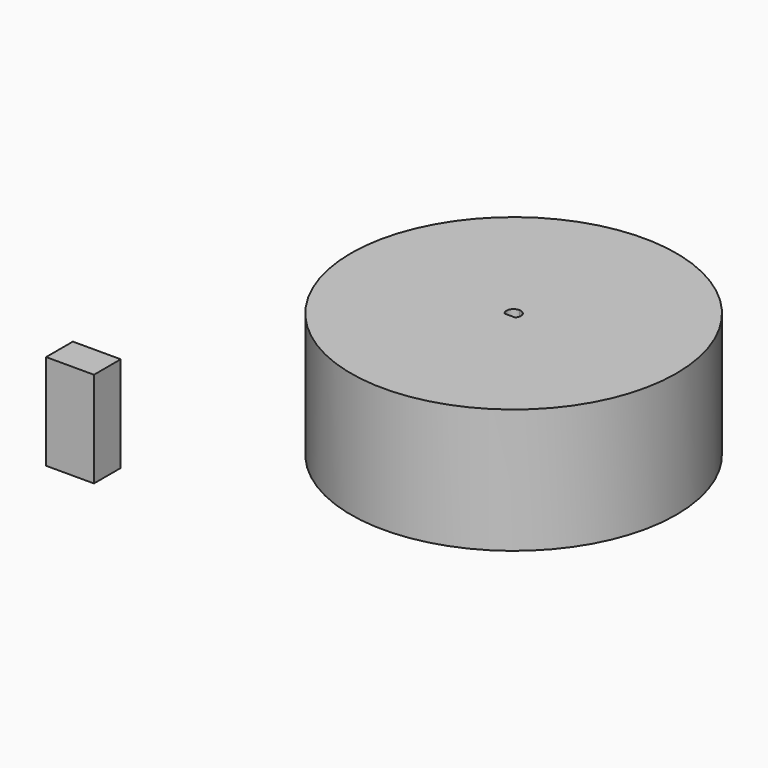
from build123d import *

# Parameters (mm, degrees)
F0_R     = 34
F1_DEPTH = 26
F2_W     = 10.0005424353
F2_H     = 7
F3_DEPTH = 20


with BuildPart() as f1:
    # F0 (on Top) → F1 (new body)
    with BuildSketch(Plane.XY):
        Circle(F0_R)
        with BuildLine():
            ThreePointArc((0, 1.5), (1.0606601718, 1.0606601718), (1.5, 0))
            ThreePointArc((1.5, 0), (1.4012585384, -0.5352331347), (1.1180339887, -1))
            ThreePointArc((1.1180339887, -1), (0.6123724357, -1.3693063938), (0, -1.5))
            ThreePointArc((0, -1.5), (-0.6123724357, -1.3693063938), (-1.1180339887, -1))
            ThreePointArc((-1.1180339887, -1), (-1.3693063938, 0.6123724357), (0, 1.5))
        make_face(mode=Mode.SUBTRACT)
        with BuildLine():
            Line((0, -1), (-1.1180339887, -1))
            ThreePointArc((-1.1180339887, -1), (-0.6123724357, -1.3693063938), (0, -1.5))
            Line((0, -1.5), (0, -1))
        make_face()
        with BuildLine():
            ThreePointArc((0, -1.5), (0.6123724357, -1.3693063938), (1.1180339887, -1))
            Line((1.1180339887, -1), (0, -1))
            Line((0, -1), (0, -1.5))
        make_face()
    extrude(amount=F1_DEPTH)


with BuildPart() as f3:
    # F2 (on Top) → F3 (new body)
    with BuildSketch(Plane.XY):
        with Locations((-52.1153736978, -47.2215054602)):
            Rectangle(F2_W, F2_H)
    extrude(amount=F3_DEPTH)


solid = Compound([f1.part, f3.part])
